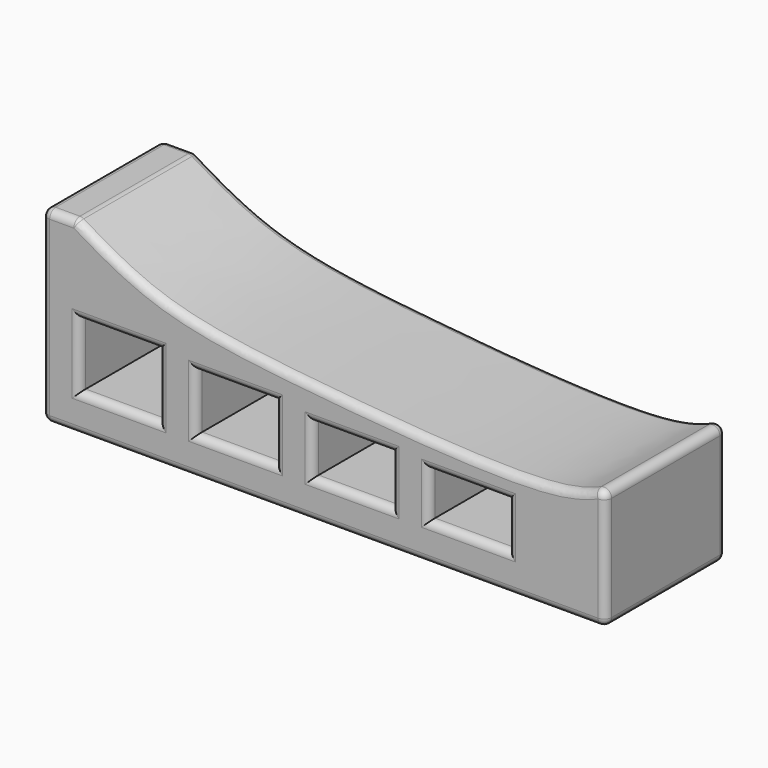
from build123d import *

# Parameters (mm, degrees)
F0_W     = 21
F0_H     = 17
F0_H_2   = 15
F0_H_3   = 13
F0_H_4   = 12
F1_DEPTH = 40
F2_R     = 2


with BuildPart() as f1:
    # F0 (on Front) → F1 (new body)
    with BuildSketch(Plane.XZ):
        with BuildLine():
            Line((-187.7269284463, 10), (-187.7269284463, 0))
            Line((-187.7269284463, 0), (-177.7269284463, 0))
            Line((-177.7269284463, 0), (-156.7269284463, 0))
            Line((-156.7269284463, 0), (-146.7269284463, 0))
            Line((-146.7269284463, 0), (-125.7269284463, 0))
            Line((-125.7269284463, 0), (-115.7269284463, 0))
            Line((-115.7269284463, 0), (-94.7269284463, 0))
            Line((-94.7269284463, 0), (-84.7269284463, 0))
            Line((-84.7269284463, 0), (-63.7269284463, 0))
            Line((-63.7269284463, 0), (-51.7269284463, 0))
            Line((-51.7269284463, 0), (-37.7269284463, 0))
            Line((-37.7269284463, 0), (-37.7269284463, 33))
            add(Edge.make_bspline(
                [(-178.7269284463, 50), (-171.8501135131, 45.8291458601), (-155.9934821594, 36.5832092462), (-116.9716909033, 31.7407768444), (-52.5012909301, 26.3666718297), (-41.333494482, 31.3189487613), (-37.7269284463, 33)],
                knots=[0, 0, 0, 0, 0.2135053975, 0.491145081, 0.8357316178, 1, 1, 1, 1], degree=3))
            Line((-178.7269284463, 50), (-187.7269284463, 50))
            Line((-187.7269284463, 50), (-187.7269284463, 10))
        make_face()
        with Locations((-167.2269284463, 18.5)):
            Rectangle(F0_W, F0_H, mode=Mode.SUBTRACT)
        with Locations((-136.2269284463, 17.5)):
            Rectangle(F0_W, F0_H_2, mode=Mode.SUBTRACT)
        with Locations((-105.2269284463, 16.5)):
            Rectangle(F0_W, F0_H_3, mode=Mode.SUBTRACT)
        with Locations((-74.2269284463, 16)):
            Rectangle(F0_W, F0_H_4, mode=Mode.SUBTRACT)
    extrude(amount=F1_DEPTH)

    # F2
    f2_edges = [f1.edges().sort_by_distance(p)[0] for p in [
        (-109.525437, -40, 31.392581),
        (-183.226928, -40, 50),
        (-187.726928, -40, 25),
        (-112.726928, -40, 0),
        (-37.726928, -40, 16.5),
        (-167.226928, -40, 10),
        (-177.726928, -40, 18.5),
        (-167.226928, -40, 27),
        (-156.726928, -40, 18.5),
        (-136.226928, -40, 10),
        (-146.726928, -40, 17.5),
        (-136.226928, -40, 25),
        (-125.726928, -40, 17.5),
        (-105.226928, -40, 10),
        (-115.726928, -40, 16.5),
        (-105.226928, -40, 23),
        (-94.726928, -40, 16.5),
        (-74.226928, -40, 10),
        (-84.726928, -40, 16),
        (-74.226928, -40, 22),
        (-63.726928, -40, 16),
        (-37.726928, -20, 33),
        (-178.726928, -20, 50),
        (-109.525437, 0, 31.392581),
        (-187.726928, -20, 50),
        (-187.726928, -20, 0),
        (-187.726928, 0, 25),
        (-183.226928, 0, 50),
        (-112.726928, 0, 0),
        (-37.726928, 0, 16.5),
        (-167.226928, 0, 10),
        (-177.726928, 0, 18.5),
        (-167.226928, 0, 27),
        (-156.726928, 0, 18.5),
        (-136.226928, 0, 10),
        (-146.726928, 0, 17.5),
        (-136.226928, 0, 25),
        (-125.726928, 0, 17.5),
        (-105.226928, 0, 10),
        (-115.726928, 0, 16.5),
        (-105.226928, 0, 23),
        (-94.726928, 0, 16.5),
        (-74.226928, 0, 10),
        (-84.726928, 0, 16),
        (-74.226928, 0, 22),
        (-63.726928, 0, 16),
        (-37.726928, -20, 0),
    ]]
    fillet(f2_edges, radius=F2_R)


solid = f1.part
